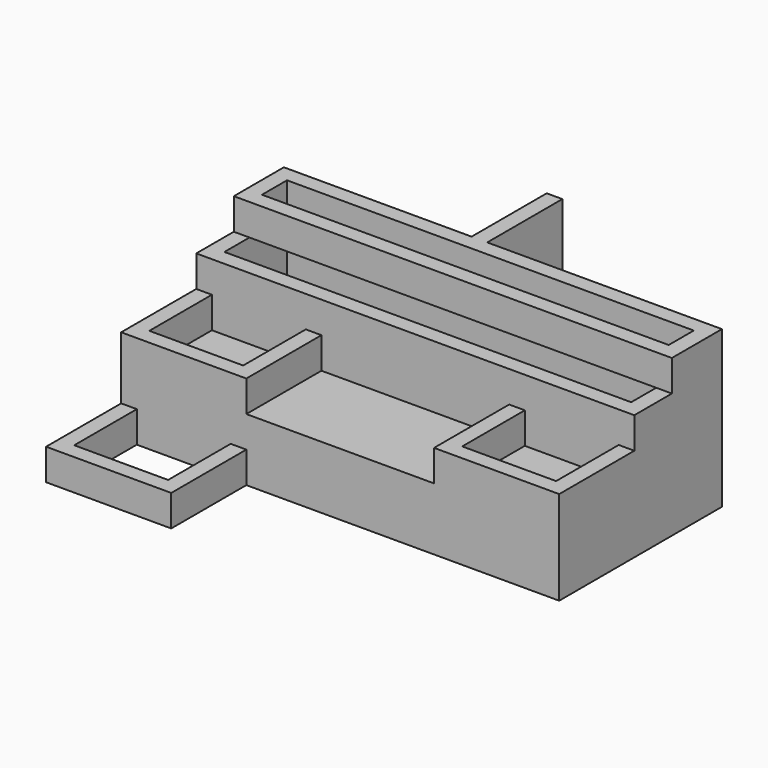
from build123d import *

# Parameters (mm, degrees)
F0_W      = 2800
F0_H      = 1300
F1_DEPTH  = 400
F2_W      = 2800
F2_H      = 700
F2_W_2    = 2600
F2_H_2    = 500
F3_DEPTH  = 400
F4_W      = 2800
F4_H      = 400
F4_W_2    = 2600
F4_H_2    = 200
F5_DEPTH  = 200
F6_W      = 100
F6_H      = 600
F7_DEPTH  = 1000
F9_DEPTH  = 200
F11_DEPTH = 200


with BuildPart() as f1:
    # F0 (on Top) → F1 (new body)
    with BuildSketch(Plane.XY):
        with Locations((-1400, 650)):
            Rectangle(F0_W, F0_H)
    extrude(amount=F1_DEPTH)

    # F2 (on face) → F3 (join)
    with BuildSketch(Plane.XY.offset(400)):
        with Locations((-1400, 950)):
            Rectangle(F2_W, F2_H)
        with Locations((-1400, 950)):
            Rectangle(F2_W_2, F2_H_2, mode=Mode.SUBTRACT)
    extrude(amount=F3_DEPTH)

    # F4 (on face) → F5 (join)
    with BuildSketch(Plane.XY.offset(800)):
        with Locations((-1400, 1100)):
            Rectangle(F4_W, F4_H)
        with Locations((-1400, 1100)):
            Rectangle(F4_W_2, F4_H_2, mode=Mode.SUBTRACT)
    extrude(amount=F5_DEPTH)

    # F6 (on Top) → F7 (join)
    with BuildSketch(Plane.XY):
        with Locations((-1550, 1600)):
            Rectangle(F6_W, F6_H)
    extrude(amount=F7_DEPTH)

    # F8 (on face) → F9 (join)
    with BuildSketch(Plane.XY.offset(400)):
        Polygon((0, 0), (0, 600), (-100, 600), (-100, 100), (-700, 100), (-700, 600), (-800, 600), (-800, 0), align=None)
        Polygon((-2800, 600), (-2800, 0), (-2000, 0), (-2000, 600), (-2100, 600), (-2100, 100), (-2700, 100), (-2700, 600), align=None)
    extrude(amount=F9_DEPTH)

    # F10 (on Top) → F11 (join)
    with BuildSketch(Plane.XY):
        Polygon((-2700, 0), (-2800, 0), (-2800, -600), (-2000, -600), (-2000, 0), (-2100, 0), (-2100, -500), (-2700, -500), align=None)
    extrude(amount=F11_DEPTH)


solid = f1.part
